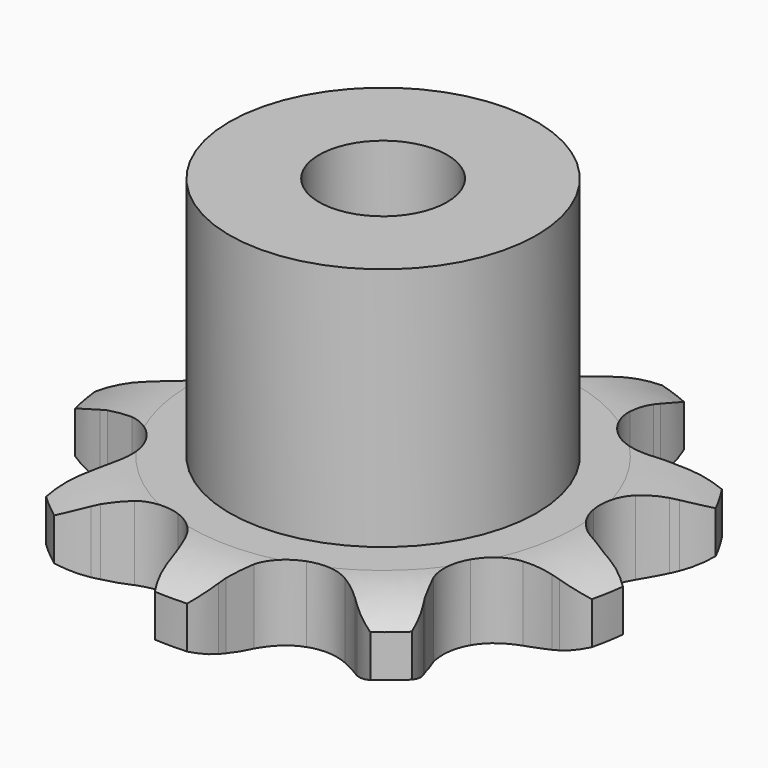
from build123d import *

# Parameters (mm, degrees)
PAD_DEPTH         = 5.9
SKETCH001_R       = 12
PAD001_DEPTH      = 25
SKETCH002_R       = 5
POCKET_DEPTH      = 0.001
POCKET_DEPTH_BACK = -25.001


with BuildPart() as part:
    # Sprocket → Pad (new body)
    with BuildSketch(Plane.XY):
        with BuildLine():
            ThreePointArc((-7.630375, 20.964282), (-5.810071, 19.821897), (-4.451147, 18.157001))
            Line((-4.451147, 18.157001), (-4.153234, 17.638681))
            ThreePointArc((-4.153234, 17.638681), (-3.588827, 16.764011), (-2.937657, 15.951865))
            ThreePointArc((-2.937657, 15.951865), (-1.609925, 14.978331), (0, 14.633683))
            ThreePointArc((0, 14.633683), (1.609925, 14.978331), (2.937657, 15.951865))
            ThreePointArc((2.937657, 15.951865), (3.588827, 16.764011), (4.153234, 17.638681))
            Line((4.153234, 17.638681), (4.451147, 18.157001))
            ThreePointArc((4.451147, 18.157001), (5.810071, 19.821897), (7.630375, 20.964282))
            ThreePointArc((7.630375, 20.964282), (8.290497, 18.919095), (8.261319, 16.770212))
            Line((8.261319, 16.770212), (8.156364, 16.181661))
            ThreePointArc((8.156364, 16.181661), (8.026498, 15.148831), (8.003285, 14.108127))
            ThreePointArc((8.003285, 14.108127), (8.394612, 12.508907), (9.40635, 11.210051))
            ThreePointArc((9.40635, 11.210051), (10.86116, 10.439227), (12.504037, 10.331548))
            Line((12.504037, 10.331548), (14.519487, 10.842367))
            ThreePointArc((14.519487, 10.842367), (14.798663, 10.949289), (15.080872, 11.047928))
            ThreePointArc((15.080872, 11.047928), (17.192042, 11.449812), (19.320787, 11.154862))
            ThreePointArc((19.320787, 11.154862), (18.511849, 9.163839), (17.108222, 7.536454))
            Line((17.108222, 7.536454), (16.649509, 7.153061))
            ThreePointArc((16.649509, 7.153061), (15.886135, 6.445344), (15.199401, 5.66304))
            ThreePointArc((15.199401, 5.66304), (14.471216, 4.186427), (14.411364, 2.541112))
            ThreePointArc((14.411364, 2.541112), (15.030337, 1.015493), (16.219639, -0.123016))
            Line((16.219639, -0.123016), (18.091911, -1.027212))
            ThreePointArc((18.091911, -1.027212), (18.374501, -1.124756), (18.654089, -1.230594))
            ThreePointArc((18.654089, -1.230594), (20.529666, -2.279767), (21.970788, -3.874043))
            ThreePointArc((21.970788, -3.874043), (20.071302, -4.879279), (17.949998, -5.223694))
            Line((17.949998, -5.223694), (17.352163, -5.222535))
            ThreePointArc((17.352163, -5.222535), (16.312473, -5.273991), (15.283549, -5.431846))
            ThreePointArc((15.283549, -5.431846), (13.776578, -6.09493), (12.673141, -7.316841))
            ThreePointArc((12.673141, -7.316841), (12.166653, -8.883402), (12.345891, -10.520018))
            Line((12.345891, -10.520018), (13.198929, -12.416146))
            ThreePointArc((13.198929, -12.416146), (13.352705, -12.672514), (13.498851, -12.933307))
            ThreePointArc((13.498851, -12.933307), (14.26123, -14.942617), (14.340414, -17.090239))
            ThreePointArc((14.340414, -17.090239), (12.239169, -16.639329), (10.39277, -15.539618))
            Line((10.39277, -15.539618), (9.935547, -15.154449))
            ThreePointArc((9.935547, -15.154449), (9.106023, -14.525567), (8.216354, -13.985112))
            ThreePointArc((8.216354, -13.985112), (6.635726, -13.5244), (5.005014, -13.751164))
            ThreePointArc((5.005014, -13.751164), (3.610056, -14.625654), (2.695364, -15.994588))
            Line((2.695364, -15.994588), (2.130021, -17.995428))
            ThreePointArc((2.130021, -17.995428), (2.08303, -18.290663), (2.02735, -18.584382))
            ThreePointArc((2.02735, -18.584382), (1.319807, -20.613651), (0, -22.309723))
            ThreePointArc((0, -22.309723), (-1.319807, -20.613651), (-2.02735, -18.584382))
            Line((-2.02735, -18.584382), (-2.130021, -17.995428))
            ThreePointArc((-2.130021, -17.995428), (-2.361236, -16.980469), (-2.695364, -15.994588))
            ThreePointArc((-2.695364, -15.994588), (-3.610056, -14.625654), (-5.005014, -13.751164))
            ThreePointArc((-5.005014, -13.751164), (-6.635726, -13.5244), (-8.216354, -13.985112))
            Line((-8.216354, -13.985112), (-9.935547, -15.154449))
            ThreePointArc((-9.935547, -15.154449), (-10.161317, -15.350407), (-10.39277, -15.539618))
            ThreePointArc((-10.39277, -15.539618), (-12.239169, -16.639329), (-14.340414, -17.090239))
            ThreePointArc((-14.340414, -17.090239), (-14.26123, -14.942617), (-13.498851, -12.933307))
            Line((-13.498851, -12.933307), (-13.198929, -12.416146))
            ThreePointArc((-13.198929, -12.416146), (-12.723646, -11.490021), (-12.345891, -10.520018))
            ThreePointArc((-12.345891, -10.520018), (-12.166653, -8.883402), (-12.673141, -7.316841))
            ThreePointArc((-12.673141, -7.316841), (-13.776578, -6.09493), (-15.283549, -5.431846))
            Line((-15.283549, -5.431846), (-17.352163, -5.222535))
            ThreePointArc((-17.352163, -5.222535), (-17.651072, -5.227525), (-17.949998, -5.223694))
            ThreePointArc((-17.949998, -5.223694), (-20.071302, -4.879279), (-21.970788, -3.874043))
            ThreePointArc((-21.970788, -3.874043), (-20.529666, -2.279767), (-18.654089, -1.230594))
            Line((-18.654089, -1.230594), (-18.091911, -1.027212))
            ThreePointArc((-18.091911, -1.027212), (-17.132521, -0.623264), (-16.219639, -0.123016))
            ThreePointArc((-16.219639, -0.123016), (-15.030337, 1.015493), (-14.411364, 2.541112))
            ThreePointArc((-14.411364, 2.541112), (-14.471216, 4.186427), (-15.199401, 5.66304))
            Line((-15.199401, 5.66304), (-16.649509, 7.153061))
            ThreePointArc((-16.649509, 7.153061), (-16.881694, 7.341374), (-17.108222, 7.536454))
            ThreePointArc((-17.108222, 7.536454), (-18.511849, 9.163839), (-19.320787, 11.154862))
            ThreePointArc((-19.320787, 11.154862), (-17.192042, 11.449812), (-15.080872, 11.047928))
            Line((-15.080872, 11.047928), (-14.519487, 10.842367))
            ThreePointArc((-14.519487, 10.842367), (-13.524899, 10.535124), (-12.504037, 10.331548))
            ThreePointArc((-12.504037, 10.331548), (-10.86116, 10.439227), (-9.40635, 11.210051))
            ThreePointArc((-9.40635, 11.210051), (-8.394612, 12.508907), (-8.003285, 14.108127))
            Line((-8.003285, 14.108127), (-8.156364, 16.181661))
            ThreePointArc((-8.156364, 16.181661), (-8.213183, 16.475162), (-8.261319, 16.770212))
            ThreePointArc((-8.261319, 16.770212), (-8.290497, 18.919095), (-7.630375, 20.964282))
        make_face()
    extrude(amount=PAD_DEPTH)

    # Sketch → Groove (revolve, cut)
    with BuildSketch(Plane.XZ):
        with BuildLine():
            Line((15.083431, 0), (20.75, 0))
            Line((26.416569, 0), (20.75, 0))
            Line((26.416569, 5.9), (26.416569, 0))
            Line((20.75, 5.9), (26.416569, 5.9))
            Line((15.083431, 5.9), (20.75, 5.9))
            ThreePointArc((20.75, 4.6), (17.99032, 5.570833), (15.083431, 5.9))
            Line((20.75, 1.3), (20.75, 4.6))
            ThreePointArc((15.083431, 0), (17.99032, 0.329167), (20.75, 1.3))
        make_face()
    revolve(axis=Axis((0, 0, 0), (0, 0, 1)), mode=Mode.SUBTRACT)

    # Sketch001 → Pad001 (join)
    with BuildSketch(Plane.XY):
        Circle(SKETCH001_R)
    extrude(amount=PAD001_DEPTH)

    # Sketch002 → Pocket (cut, two sides)
    with BuildSketch(Plane.XY) as pocket_sk:
        Circle(SKETCH002_R)
    extrude(amount=-POCKET_DEPTH, mode=Mode.SUBTRACT)
    extrude(pocket_sk.sketch, amount=-POCKET_DEPTH_BACK, mode=Mode.SUBTRACT)


solid = part.part
